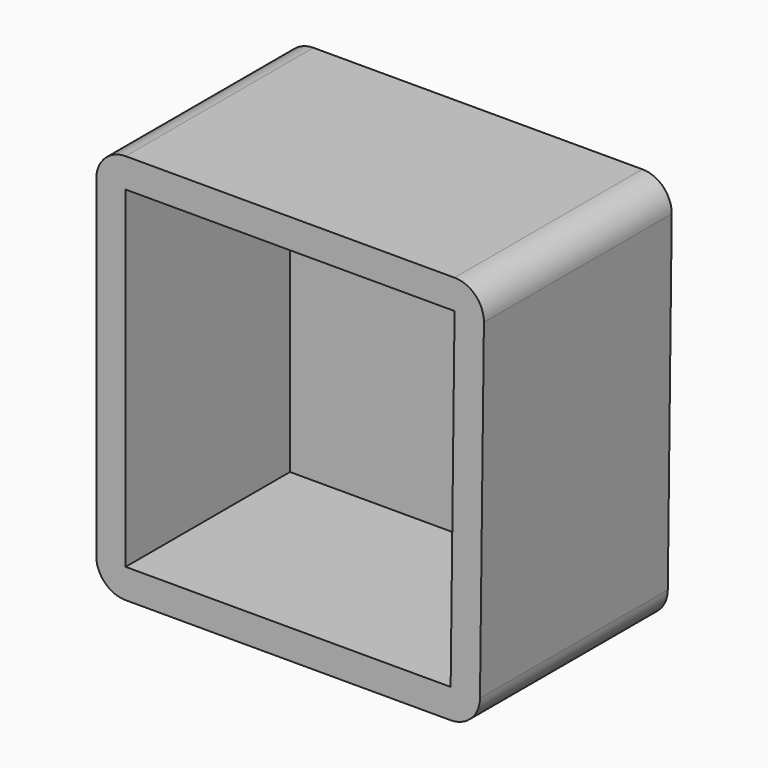
from build123d import *

# Parameters (mm, degrees)
F1_DEPTH = 50.8
F2_T     = -6.35
F3_R     = 6.35
F4_R     = 20.639799
F5_DEPTH = 25.4


with BuildPart() as f1:
    # F0 (on Front) → F1 (new body)
    with BuildSketch(Plane.XZ):
        Polygon((-46.398684, 47.853038), (-46.398684, -36.724649), (36.554363, -36.724649), (37.55359, 47.853038), align=None)
    extrude(amount=-F1_DEPTH)

    # F2
    f2_openings = [f1.faces().sort_by_distance(p)[0] for p in [
        (-4.671856, 0, 5.648586),
    ]]
    offset(amount=F2_T, openings=f2_openings)

    # F3
    f3_edges = [f1.edges().sort_by_distance(p)[0] for p in [
        (37.55359, 25.4, 47.853038),
        (-46.398684, 25.4, 47.853038),
        (36.554363, 25.4, -36.724649),
        (-46.398684, 25.4, -36.724649),
    ]]
    fillet(f3_edges, radius=F3_R)

    # F4 (on face) → F5 (join)
    with BuildSketch(Plane(origin=(0, 50.8, 0), x_dir=(-1, 0, 0), z_dir=(0, 1, 0))):
        with Locations((4.460279, 5.489179)):
            Circle(F4_R)
    extrude(amount=F5_DEPTH)


solid = f1.part
